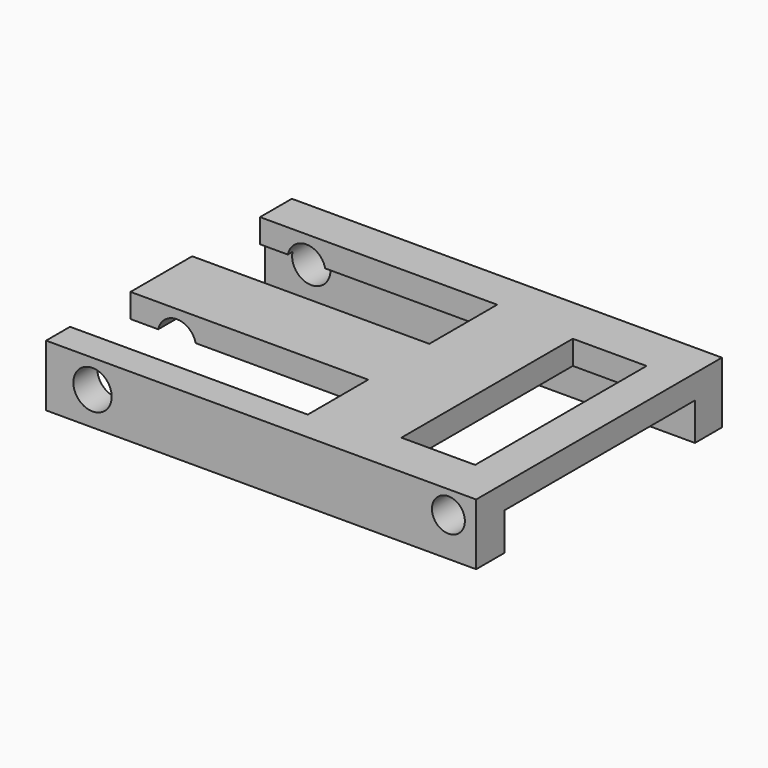
from build123d import *

# Parameters (mm, degrees)
F0_W      = 127
F0_H      = 25.4
F1_DEPTH  = 152.4
F2_W      = 98.3371436596
F2_H      = 15.5014246702
F3_DEPTH  = 152.401
F5_DEPTH  = 25.4
F6_R      = 6.8113689933
F7_DEPTH  = 127.001
F10_R     = 7.917856488
F11_DEPTH = 127.001
F12_W     = 98.2769206166
F12_H     = 31.2483850867
F13_DEPTH = 25.401
F14_W     = 98.0260297656
F14_H     = 35.063225776
F15_DEPTH = 25.401
F16_W     = 30.4847359657
F16_H     = 88.5739065707
F17_DEPTH = 25.401


with BuildPart() as f1:
    # F0 (on Right) → F1 (new body)
    with BuildSketch(Plane.YZ):
        with Locations((7.3526296653, 12.7)):
            Rectangle(F0_W, F0_H)
    extrude(amount=F1_DEPTH)

    # F2 (on face) → F3 (cut, through all)
    with BuildSketch(Plane.YZ.offset(152.4)):
        with Locations((7.7507048845, 7.7507123351)):
            Rectangle(F2_W, F2_H)
    extrude(amount=-F3_DEPTH, mode=Mode.SUBTRACT)

    # F4 (on face) → F5 (join)
    with BuildSketch(Plane.YZ.offset(152.4)):
        Polygon((70.8526296653, 25.4), (-56.1473703347, 25.4), (-56.1473703347, 0), (-41.4178669453, 0), (-41.4178669453, 15.5014246702), (56.9192767143, 15.5014246702), (56.9192767143, 0), (70.8526296653, 0), align=None)
    extrude(amount=F5_DEPTH)

    # F6 (on face) → F7 (cut, through all)
    with BuildSketch(Plane(origin=(0, 70.8526296653, 0), x_dir=(-1, 0, 0), z_dir=(0, 1, 0))):
        with Locations((-166.326135397, 16.0321518779)):
            Circle(F6_R)
    extrude(amount=-F7_DEPTH, mode=Mode.SUBTRACT)

    # F10 (on face) → F11 (cut, through all)
    with BuildSketch(Plane(origin=(0, 70.8526296653, 0), x_dir=(-1, 0, 0), z_dir=(0, 1, 0))):
        with Locations((-19.1903246846, 13.7839203013)):
            Circle(F10_R)
    extrude(amount=-F11_DEPTH, mode=Mode.SUBTRACT)

    # F12 (on face) → F13 (cut, through all)
    with BuildSketch(Plane.XY.offset(25.4)):
        with Locations((49.1384603083, -28.1473351642)):
            Rectangle(F12_W, F12_H)
    extrude(amount=-F13_DEPTH, mode=Mode.SUBTRACT)

    # F14 (on face) → F15 (cut, through all)
    with BuildSketch(Plane.XY.offset(25.4)):
        with Locations((49.0130148828, 36.8879642338)):
            Rectangle(F14_W, F14_H)
    extrude(amount=-F15_DEPTH, mode=Mode.SUBTRACT)

    # F16 (on face) → F17 (cut, through all)
    with BuildSketch(Plane.XY.offset(25.4)):
        with Locations((147.2032368183, 6.8099442869)):
            Rectangle(F16_W, F16_H)
    extrude(amount=-F17_DEPTH, mode=Mode.SUBTRACT)


solid = f1.part
